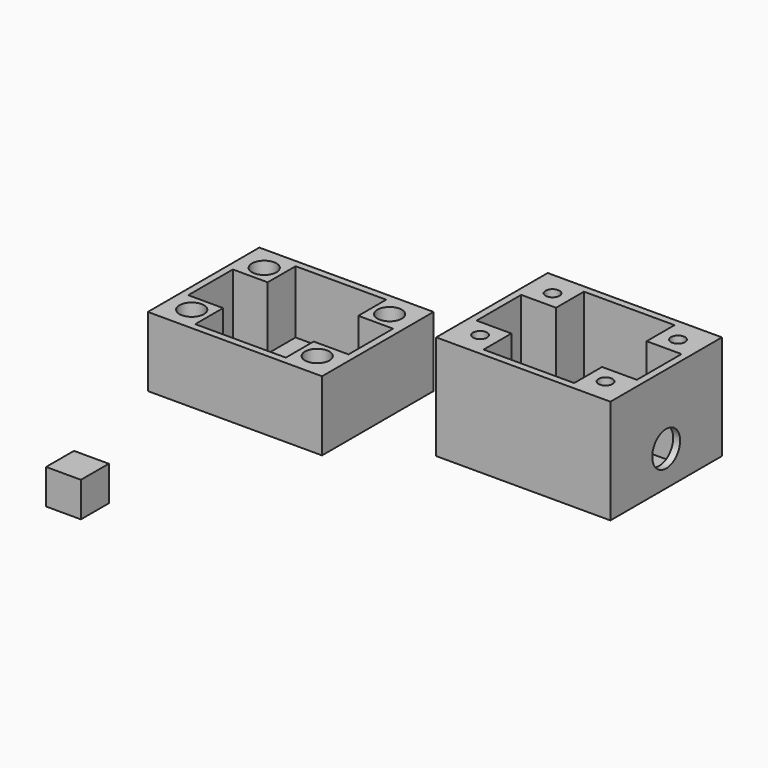
from build123d import *

# Parameters (mm, degrees)
F0_W      = 50
F0_H      = 40
F1_DEPTH  = 20
F2_W      = 46
F2_H      = 36
F3_DEPTH  = 18
F4_W      = 10
F4_H      = 10
F5_DEPTH  = 18
F6_R      = 3.5
F7_DEPTH  = 15
F8_W      = 10
F8_H      = 10
F9_DEPTH  = 10
F10_W     = 50
F10_H     = 40
F11_DEPTH = 30
F12_W     = 46
F12_H     = 36
F13_DEPTH = 28
F14_W     = 10
F14_H     = 10
F15_DEPTH = 28
F16_R     = 2
F17_DEPTH = 25
F18_R     = 4
F19_DEPTH = 5
F22_R     = 1.5
F23_R     = 1.5
F21_R     = 1.5
F20_R     = 1.5
F24_DEPTH = 10
F25_R     = 1.5
F26_DEPTH = 4
F27_R     = 5
F28_DEPTH = 2


with BuildPart() as f1:
    # F0 (on Top) → F1 (new body)
    with BuildSketch(Plane.XY):
        with Locations((-33.405512, 37.816999)):
            Rectangle(F0_W, F0_H)
    extrude(amount=F1_DEPTH)

    # F2 (on face) → F3 (cut)
    with BuildSketch(Plane.XY.offset(20)):
        with Locations((-33.405512, 37.816999)):
            Rectangle(F2_W, F2_H)
    extrude(amount=-F3_DEPTH, mode=Mode.SUBTRACT)

    # F4 (on face) → F5 (join)
    with BuildSketch(Plane.XY.offset(2)):
        with Locations((-51.405512, 50.816999)):
            Rectangle(F4_W, F4_H)
        with Locations((-15.405512, 50.816999)):
            Rectangle(F4_W, F4_H)
        with Locations((-15.405512, 24.816999)):
            Rectangle(F4_W, F4_H)
        with Locations((-51.405512, 24.816999)):
            Rectangle(F4_W, F4_H)
    extrude(amount=F5_DEPTH)

    # F6 (on face) → F7 (cut)
    with BuildSketch(Plane.XY.offset(20)):
        with Locations((-51.405512, 50.816999)):
            Circle(F6_R)
        with Locations((-15.405512, 50.816999)):
            Circle(F6_R)
        with Locations((-15.405512, 24.816999)):
            Circle(F6_R)
        with Locations((-51.405512, 24.816999)):
            Circle(F6_R)
    extrude(amount=-F7_DEPTH, mode=Mode.SUBTRACT)


with BuildPart() as f9:
    # F8 (on Top) → F9 (new body)
    with BuildSketch(Plane.XY):
        with Locations((-36.209533, -35.172561)):
            Rectangle(F8_W, F8_H)
    extrude(amount=F9_DEPTH)


with BuildPart() as f11:
    # F10 (on Top) → F11 (new body)
    with BuildSketch(Plane.XY):
        with Locations((36.76267, 53.548878)):
            Rectangle(F10_W, F10_H)
    extrude(amount=F11_DEPTH)

    # F12 (on face) → F13 (cut)
    with BuildSketch(Plane.XY.offset(30)):
        with Locations((36.76267, 53.548878)):
            Rectangle(F12_W, F12_H)
    extrude(amount=-F13_DEPTH, mode=Mode.SUBTRACT)

    # F14 (on face) → F15 (join)
    with BuildSketch(Plane.XY.offset(2)):
        with Locations((18.76267, 66.548878)):
            Rectangle(F14_W, F14_H)
        with Locations((18.76267, 40.548878)):
            Rectangle(F14_W, F14_H)
        with Locations((54.76267, 66.548878)):
            Rectangle(F14_W, F14_H)
        with Locations((54.76267, 40.548878)):
            Rectangle(F14_W, F14_H)
    extrude(amount=F15_DEPTH)

    # F16 (on face) → F17 (cut)
    with BuildSketch(Plane.XY.offset(30)):
        with Locations((18.76267, 66.548878)):
            Circle(F16_R)
        with Locations((54.76267, 66.548878)):
            Circle(F16_R)
        with Locations((54.76267, 40.548878)):
            Circle(F16_R)
        with Locations((18.76267, 40.548878)):
            Circle(F16_R)
    extrude(amount=-F17_DEPTH, mode=Mode.SUBTRACT)

    # F18 (on face) → F19 (join)
    with BuildSketch(Plane.XY.offset(2)):
        with Locations((29.76267, 65.548878)):
            Circle(F18_R)
        with Locations((43.76267, 65.548878)):
            Circle(F18_R)
        with Locations((29.76267, 41.548878)):
            Circle(F18_R)
        with Locations((43.76267, 41.548878)):
            Circle(F18_R)
    extrude(amount=F19_DEPTH)

    # F22 (on face) + F23 (on face) + F21 (on face) + F20 (on face) → F24 (cut)
    with BuildSketch(Plane.XY.offset(7)):
        with Locations((29.76267, 65.548878)):
            Circle(F22_R)
    with BuildSketch(Plane.XY.offset(7)):
        with Locations((43.76267, 65.548878)):
            Circle(F23_R)
    with BuildSketch(Plane.XY.offset(7)):
        with Locations((43.76267, 41.548878)):
            Circle(F21_R)
    with BuildSketch(Plane.XY.offset(7)):
        with Locations((29.76267, 41.548878)):
            Circle(F20_R)
    extrude(amount=-F24_DEPTH, mode=Mode.SUBTRACT)

    # F25 (on face) → F26 (cut)
    with BuildSketch(Plane(origin=(0, 0, 0), x_dir=(1, 0, 0), z_dir=(0, 0, -1))):
        Polygon((33.482719, -43.128298), (32.990513, -39.116931), (29.270464, -37.53751), (26.042621, -39.969457), (26.534827, -43.980824), (30.254876, -45.560245), align=None)
        with Locations((29.76267, -41.548878)):
            Circle(F25_R, mode=Mode.SUBTRACT)
        Polygon((40.566091, -39.075981), (40.022789, -43.080748), (43.219368, -45.553644), (46.959249, -44.021774), (47.50255, -40.017007), (44.305971, -37.544111), align=None)
        with Locations((43.76267, -41.548878)):
            Circle(F25_R, mode=Mode.SUBTRACT)
        Polygon((43.080384, -61.565434), (39.971764, -64.148033), (40.65405, -68.131476), (44.444956, -69.532321), (47.553576, -66.949722), (46.87129, -62.966279), align=None)
        with Locations((43.76267, -65.548878)):
            Circle(F25_R, mode=Mode.SUBTRACT)
        Polygon((29.550163, -61.513017), (26.161258, -63.714983), (26.373765, -67.750844), (29.975177, -69.584739), (33.364081, -67.382772), (33.151574, -63.346911), align=None)
        with Locations((29.76267, -65.548878)):
            Circle(F25_R, mode=Mode.SUBTRACT)
    extrude(amount=-F26_DEPTH, mode=Mode.SUBTRACT)

    # F27 (on face) → F28 (cut)
    with BuildSketch(Plane.YZ.offset(61.76267)):
        with Locations((53.548878, 10)):
            Circle(F27_R)
    extrude(amount=-F28_DEPTH, mode=Mode.SUBTRACT)


solid = Compound([f1.part, f9.part, f11.part])
